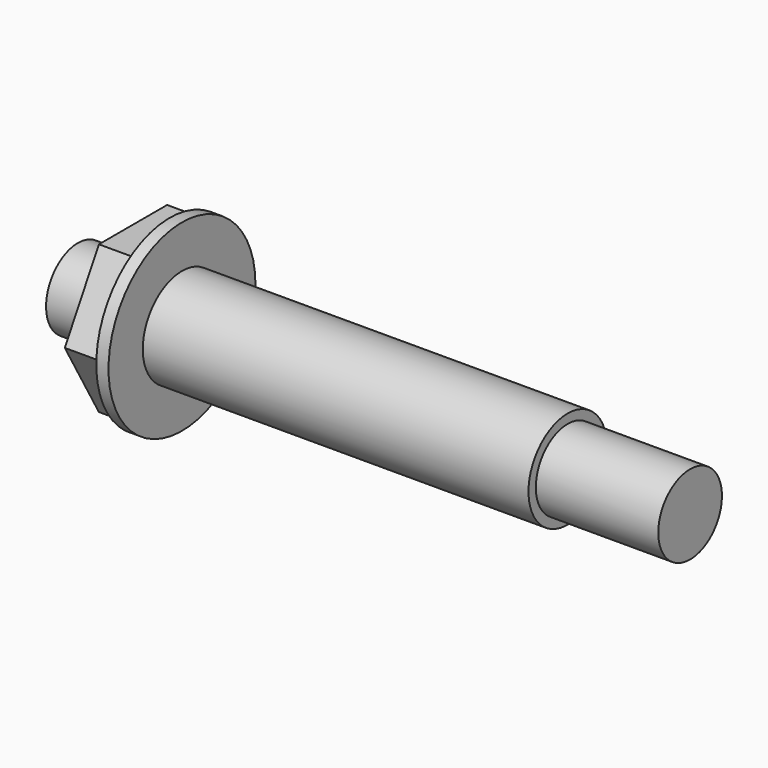
from build123d import *

# Parameters (mm, degrees)
F2_R     = 4
F3_DEPTH = 3
F4_R     = 7.5
F4_R_2   = 4
F5_DEPTH = 1


with BuildPart() as f1:
    # F0 (on Front) → F1 (revolve)
    with BuildSketch(Plane.XZ):
        Polygon((0, 3.25), (0, 0), (50, 0), (50, 3.25), (40, 3.25), (40, 4), (4.5, 4), (4.5, 3.25), align=None)
    revolve(axis=Axis((25, 0, 0), (1, 0, 0)))


with BuildPart() as f3:
    # F2 (on face) → F3 (new body)
    with BuildSketch(Plane(origin=(4.5, 0, 0), x_dir=(0, -1, 0), z_dir=(-1, 0, 0))):
        Polygon((3.481422, 6.03), (-3.481422, 6.03), (-6.962844, 0), (-3.481422, -6.03), (3.481422, -6.03), (6.962844, 0), align=None)
        Circle(F2_R, mode=Mode.SUBTRACT)
    extrude(amount=-F3_DEPTH)


with BuildPart() as f5:
    # F4 (on face) → F5 (new body)
    with BuildSketch(Plane.YZ.offset(7.5)):
        Circle(F4_R)
        Circle(F4_R_2, mode=Mode.SUBTRACT)
    extrude(amount=F5_DEPTH)


solid = Compound([f1.part, f3.part, f5.part])
